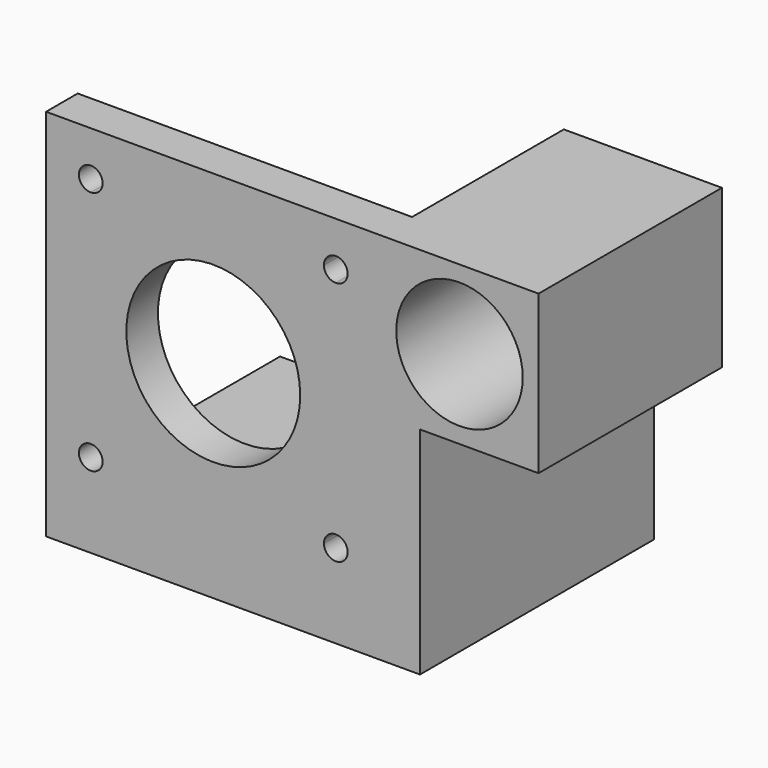
from build123d import *

# Parameters (mm, degrees)
F0_W     = 42.3
F0_H     = 5
F0_R     = 8
F0_R_2   = 11
F1_DEPTH = 5
F2_DEPTH = 37
F3_DEPTH = 29


with BuildPart() as f1:
    # F0 (on Front) → F1 (new body)
    with BuildSketch(Plane.XZ):
        with Locations((0, -23.65)):
            Rectangle(F0_W, F0_H)
        Polygon((21.15, 20.15), (21.15, 1.15), (26.15, 1.15), (41.15, 1.15), (41.15, 21.15), (26.15, 21.15), (21.15, 21.15), align=None)
        with Locations((31.15, 11.15)):
            Circle(F0_R, mode=Mode.SUBTRACT)
        Polygon((21.15, 1.15), (21.15, -21.15), (21.15, -26.15), (26.15, -26.15), (26.15, 1.15), align=None)
        Polygon((-21.15, -21.15), (21.15, -21.15), (21.15, 1.15), (21.15, 20.15), (21.15, 21.15), (20.15, 21.15), (-21.15, 21.15), align=None)
        with BuildLine():
            Line((14, -15.5), (-14, -15.5))
            ThreePointArc((-14, -15.5), (-16.56066, -16.56066), (-15.5, -14))
            Line((-15.5, -14), (-15.5, 14))
            ThreePointArc((-15.5, 14), (-16.56066, 16.56066), (-14, 15.5))
            Line((-14, 15.5), (14, 15.5))
            ThreePointArc((14, 15.5), (15.5, 17), (17, 15.5))
            ThreePointArc((17, 15.5), (16.56066, 14.43934), (15.5, 14))
            Line((15.5, 14), (15.5, -14))
            ThreePointArc((15.5, -14), (16.56066, -14.43934), (17, -15.5))
            ThreePointArc((17, -15.5), (15.5, -17), (14, -15.5))
        make_face(mode=Mode.SUBTRACT)
        with BuildLine():
            ThreePointArc((-15.5, -14), (-14.43934, -14.43934), (-14, -15.5))
            Line((-14, -15.5), (14, -15.5))
            ThreePointArc((14, -15.5), (14.43934, -14.43934), (15.5, -14))
            Line((15.5, -14), (15.5, 14))
            ThreePointArc((15.5, 14), (14.43934, 14.43934), (14, 15.5))
            Line((14, 15.5), (-14, 15.5))
            ThreePointArc((-14, 15.5), (-14.43934, 14.43934), (-15.5, 14))
            Line((-15.5, 14), (-15.5, -14))
        make_face()
        Circle(F0_R_2, mode=Mode.SUBTRACT)
    extrude(amount=-F1_DEPTH)

    # F0 (on Front) → F2 (join)
    with BuildSketch(Plane.XZ):
        with Locations((0, -23.65)):
            Rectangle(F0_W, F0_H)
        Polygon((21.15, 1.15), (21.15, -21.15), (21.15, -26.15), (26.15, -26.15), (26.15, 1.15), align=None)
    extrude(amount=-F2_DEPTH)

    # F0 (on Front) → F3 (join)
    with BuildSketch(Plane.XZ):
        Polygon((21.15, 20.15), (21.15, 1.15), (26.15, 1.15), (41.15, 1.15), (41.15, 21.15), (26.15, 21.15), (21.15, 21.15), align=None)
        with Locations((31.15, 11.15)):
            Circle(F0_R, mode=Mode.SUBTRACT)
    extrude(amount=-F3_DEPTH)


solid = f1.part
